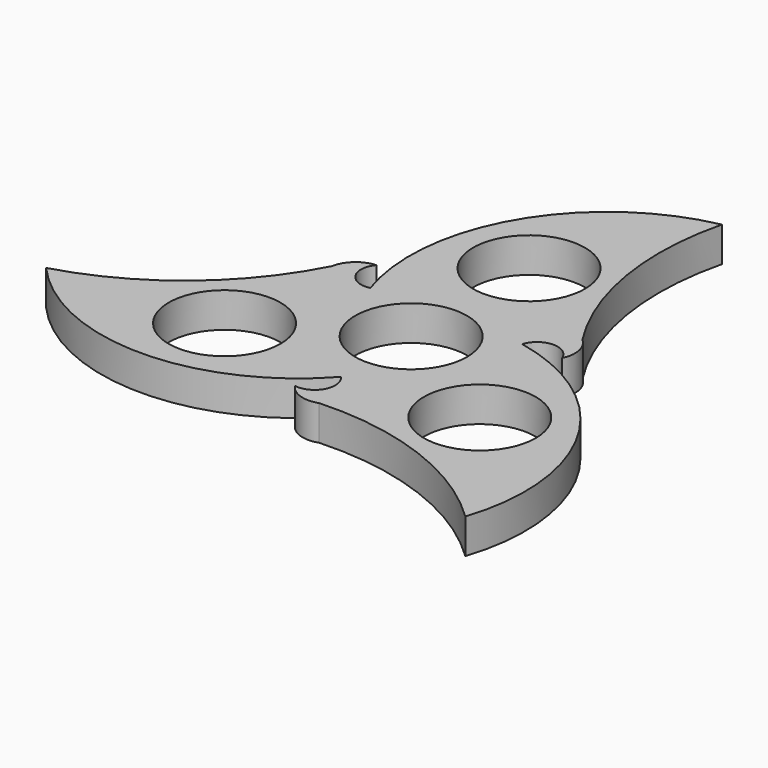
from build123d import *

# Parameters (mm, degrees)
F0_R     = 11.2
F1_DEPTH = 7


with BuildPart() as f1:
    # F0 (on Top) → F1 (new body)
    with BuildSketch(Plane.XY):
        with BuildLine():
            ThreePointArc((-24.555476, 10.805503), (-38.89385, -6.957617), (-59.095755, -17.587779))
            ThreePointArc((-59.095755, -17.587779), (-29.547878, -30.85808), (0, -17.587779))
            ThreePointArc((0, -17.587779), (0.616641, -22.365553), (-3.718256, -24.466991))
            ThreePointArc((-3.718256, -24.466991), (-0.778036, -26.710105), (2.919898, -26.668418))
            ThreePointArc((2.919898, -26.668418), (25.472398, -30.204253), (44.779341, -42.384536))
            ThreePointArc((44.779341, -42.384536), (41.49782, -10.160173), (15.231463, 8.79389))
            ThreePointArc((15.231463, 8.79389), (19.060817, 11.716804), (23.048163, 9.013391))
            ThreePointArc((23.048163, 9.013391), (23.520647, 12.681254), (21.635578, 15.862915))
            ThreePointArc((21.635578, 15.862915), (13.421452, 37.16187), (14.316414, 59.972315))
            ThreePointArc((14.316414, 59.972315), (-11.949942, 41.018252), (-15.231463, 8.79389))
            ThreePointArc((-15.231463, 8.79389), (-19.677458, 10.64875), (-19.329907, 15.453599))
            ThreePointArc((-19.329907, 15.453599), (-22.742611, 14.028851), (-24.555476, 10.805503))
        make_face()
        with Locations((-25.58171, -14.769607)):
            Circle(F0_R, mode=Mode.SUBTRACT)
        Circle(F0_R, mode=Mode.SUBTRACT)
        with Locations((25.58171, -14.769607)):
            Circle(F0_R, mode=Mode.SUBTRACT)
        with Locations((0, 29.539214)):
            Circle(F0_R, mode=Mode.SUBTRACT)
    extrude(amount=F1_DEPTH)


solid = f1.part
